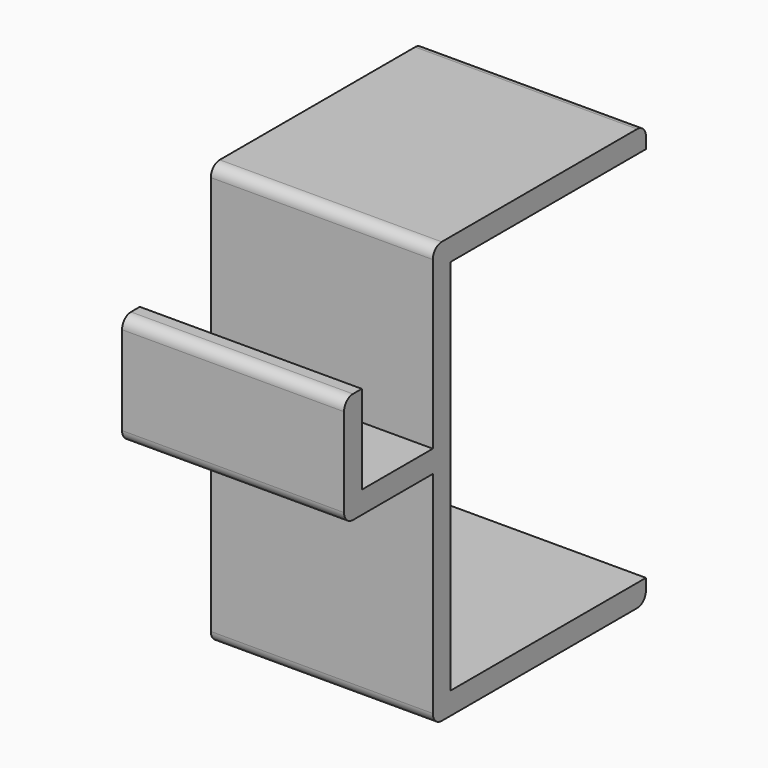
from build123d import *

# Parameters (mm, degrees)
BOX001_W     = 20
BOX001_H     = 30
BOX001_DEPTH = 34
BOX_W        = 20
BOX_H        = 24
BOX_DEPTH    = 38
BOX002_W     = 20
BOX002_H     = 8
BOX002_DEPTH = 8
BOX003_W     = 20
BOX003_H     = 10
BOX003_DEPTH = 10
FILLET_R     = 1


with BuildPart() as cube001:
    # Box001 → Box001 (new body)
    with BuildSketch(Plane(origin=(0, 2, 2), x_dir=(1, 0, 0), z_dir=(0, 0, 1))):
        with Locations((10, 15)):
            Rectangle(BOX001_W, BOX001_H)
    extrude(amount=BOX001_DEPTH)


with BuildPart() as cut:
    # Box → Box (new body)
    with BuildSketch(Plane.XY):
        with Locations((10, 12)):
            Rectangle(BOX_W, BOX_H)
    extrude(amount=BOX_DEPTH)

    # Cut: cut Cube001
    add(cube001.part, mode=Mode.SUBTRACT)


with BuildPart() as cube002:
    # Box002 → Box002 (new body)
    with BuildSketch(Plane(origin=(0, -8, 22), x_dir=(1, 0, 0), z_dir=(0, 0, 1))):
        with Locations((10, 4)):
            Rectangle(BOX002_W, BOX002_H)
    extrude(amount=BOX002_DEPTH)


with BuildPart() as fillet_body:
    # Box003 → Box003 (new body)
    with BuildSketch(Plane(origin=(0, -10, 20), x_dir=(1, 0, 0), z_dir=(0, 0, 1))):
        with Locations((10, 5)):
            Rectangle(BOX003_W, BOX003_H)
    extrude(amount=BOX003_DEPTH)

    # Cut001: cut Cube002
    add(cube002.part, mode=Mode.SUBTRACT)

    # Fusion: union Cut
    add(cut.part)

    # Fillet
    fillet_edges = [fillet_body.edges().sort_by_distance(p)[0] for p in [
        (10, -10, 30),
        (10, -10, 20),
        (10, 0, 0),
        (10, 0, 38),
        (10, 24, 38),
        (10, 24, 0),
    ]]
    fillet(fillet_edges, radius=FILLET_R)


solid = fillet_body.part
